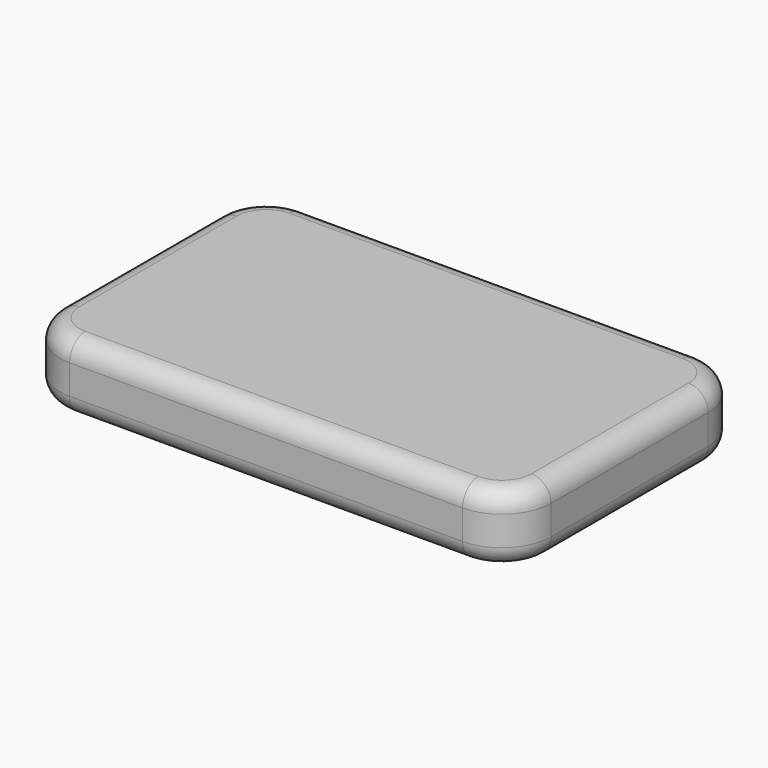
from build123d import *

# Parameters (mm, degrees)
F0_W     = 50
F0_H     = 30
F1_DEPTH = 7
F2_R     = 5
F3_R     = 2


with BuildPart() as f1:
    # F0 (on Top) → F1 (new body)
    with BuildSketch(Plane.XY):
        Rectangle(F0_W, F0_H)
    extrude(amount=F1_DEPTH)

    # F2
    f2_edges = [f1.edges().sort_by_distance(p)[0] for p in [
        (25, -15, 3.5),
        (-25, -15, 3.5),
        (25, 15, 3.5),
        (-25, 15, 3.5),
    ]]
    fillet(f2_edges, radius=F2_R)

    # F3
    f3_edges = [f1.edges().sort_by_distance(p)[0] for p in [
        (0, -15, 7),
        (0, -15, 0),
    ]]
    fillet(f3_edges, radius=F3_R)


solid = f1.part
